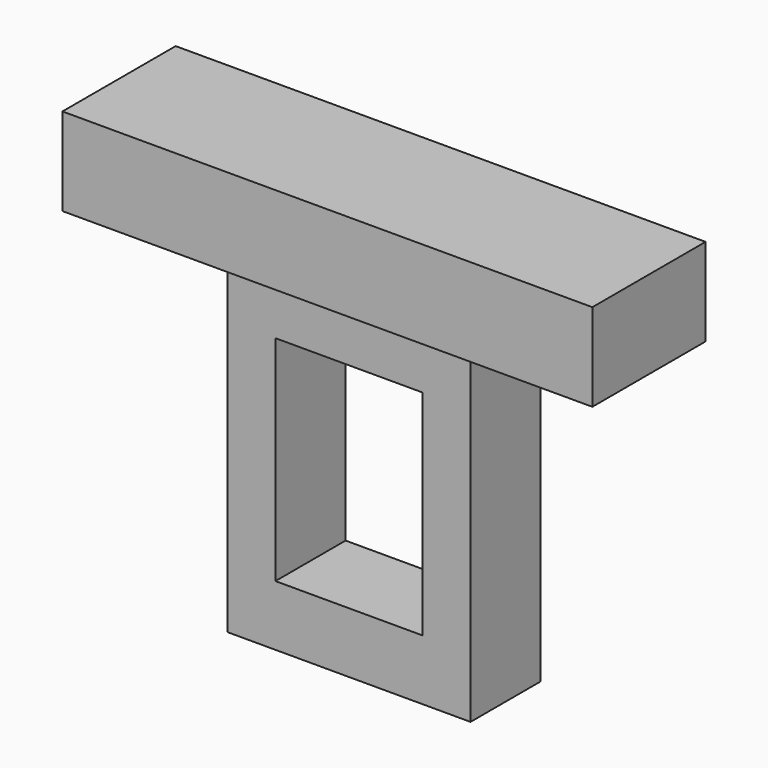
from build123d import *

# Parameters (mm, degrees)
F0_W     = 70.4235509038
F0_H     = 96.9706401229
F1_DEPTH = 25.4
F2_W     = 153.4230113029
F2_H     = 40.9747579411
F2_W_2   = 70.4235509038
F2_H_2   = 25.4
F3_DEPTH = 25.4
F4_W     = 42.5563007593
F4_H     = 61.9181990623
F5_DEPTH = 25.4


with BuildPart() as f1:
    # F0 (on Front) → F1 (new body)
    with BuildSketch(Plane.XZ):
        Rectangle(F0_W, F0_H)
    extrude(amount=F1_DEPTH)

    # F2 (on face) → F3 (join)
    with BuildSketch(Plane.XY.offset(48.4853200614)):
        with Locations((0, -12.7)):
            Rectangle(F2_W, F2_H)
        with Locations((0, -12.7)):
            Rectangle(F2_W_2, F2_H_2, mode=Mode.SUBTRACT)
        with Locations((0, -12.7)):
            Rectangle(F2_W_2, F2_H_2)
    extrude(amount=F3_DEPTH)

    # F4 (on face) → F5 (cut)
    with BuildSketch(Plane.XZ.offset(25.4)):
        Rectangle(F4_W, F4_H)
    extrude(amount=-F5_DEPTH, mode=Mode.SUBTRACT)


solid = f1.part
